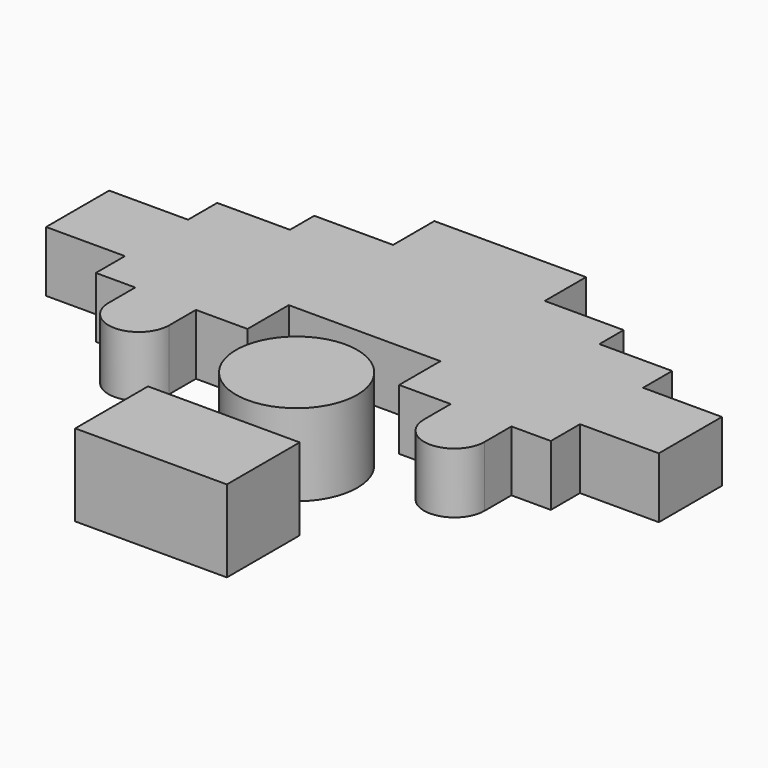
from build123d import *

# Parameters (mm, degrees)
BOX_W          = 5
BOX_H          = 3
BOX_DEPTH      = 2.7
PAD030_DEPTH   = 2
CYLINDER_R     = 2
CYLINDER_DEPTH = 2.7


with BuildPart() as cube:
    # Box → Box (new body)
    with BuildSketch(Plane(origin=(-2.5, -6, -2.7), x_dir=(1, 0, 0), z_dir=(0, 0, 1))):
        with Locations((2.5, 1.5)):
            Rectangle(BOX_W, BOX_H)
    extrude(amount=BOX_DEPTH)


with BuildPart() as socket_cutout:
    # Sketch102 → Pad030 (new body)
    with BuildSketch(Plane.XY):
        with BuildLine():
            Line((-10.1, -3.5), (-7.5, -3.5))
            Line((-7.5, -3.5), (-7.5, -4.7))
            Line((-7.5, -4.7), (-6.2, -4.7))
            Line((-6.2, -4.7), (-6.2, -5.8))
            ThreePointArc((-6.2, -5.8), (-5.2, -6.8), (-4.2, -5.8))
            Line((-4.2, -4.7), (-4.2, -5.8))
            Line((-2.5, -4.7), (-4.2, -4.7))
            Line((-2.5, -4.7), (-2.5, -3))
            Line((-2.5, -3), (2.5, -3))
            Line((2.5, -3), (2.5, -4.7))
            Line((2.5, -4.7), (4.2, -4.7))
            Line((4.2, -4.7), (4.2, -5.8))
            ThreePointArc((4.2, -5.8), (5.2, -6.8), (6.2, -5.8))
            Line((6.2, -4.7), (6.2, -5.8))
            Line((7.5, -4.7), (6.2, -4.7))
            Line((7.5, -3.5), (7.5, -4.7))
            Line((10.1, -3.5), (7.5, -3.5))
            Line((10.1, -0.9), (10.1, -3.5))
            Line((7.5, -0.9), (10.1, -0.9))
            Line((7.5, 0.3), (7.5, -0.9))
            Line((5.1, 0.3), (7.5, 0.3))
            Line((5.1, 1.3), (5.1, 0.3))
            Line((2.5, 1.3), (5.1, 1.3))
            Line((2.5, 1.3), (2.5, 3))
            Line((2.5, 3), (-2.5, 3))
            Line((-2.5, 1.3), (-2.5, 3))
            Line((-2.5, 1.3), (-5.1, 1.3))
            Line((-5.1, 0.3), (-5.1, 1.3))
            Line((-7.5, 0.3), (-5.1, 0.3))
            Line((-7.5, 0.3), (-7.5, -0.9))
            Line((-7.5, -0.9), (-10.1, -0.9))
            Line((-10.1, -0.9), (-10.1, -3.5))
        make_face()
    extrude(amount=PAD030_DEPTH)


with BuildPart() as socket_cutout_1:
    # Body032 placement: moved
    add(socket_cutout.part.moved(Location((0, 5.8, -2))))


with BuildPart() as fusion:
    # Cylinder → Cylinder (new body)
    with BuildSketch(Plane.XY.offset(-2.7)):
        Circle(CYLINDER_R)
    extrude(amount=CYLINDER_DEPTH)

    # Fusion: union Cube, socket cutout
    add(cube.part)
    add(socket_cutout_1.part)


solid = fusion.part
